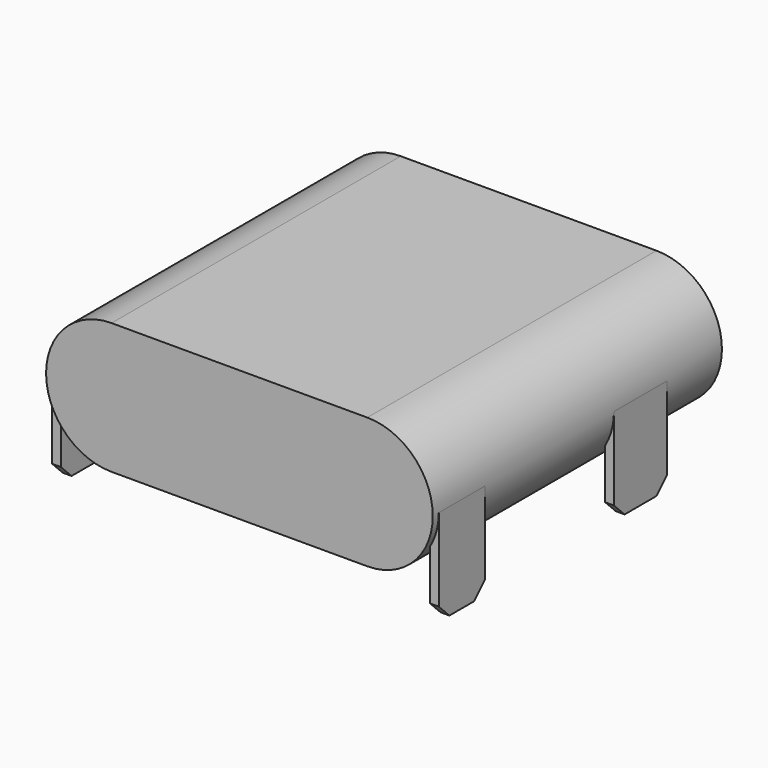
from build123d import *

# Parameters (mm, degrees)
PAD003_DEPTH    = 4.7
CHAMFER001_SIZE = 0.1
PAD010_DEPTH    = 3.47
SKETCH019_W     = 0.2
SKETCH019_H     = 1.5
SKETCH019_H_2   = 1.3
PAD012_DEPTH    = 2.17
CHAMFER002_SIZE = 0.3


with BuildPart() as part:
    # Sketch002 → Pad003 (new body)
    with BuildSketch(Plane.XZ):
        with BuildLine():
            ThreePointArc((-2.89, 1.48), (-4.37, 0), (-2.89, -1.48))
            Line((-2.89, -1.48), (2.89, -1.48))
            ThreePointArc((2.89, -1.48), (4.37, 0), (2.89, 1.48))
            Line((-2.89, 1.48), (2.89, 1.48))
        make_face()
        with BuildLine():
            ThreePointArc((-2.89, 1.28), (-4.17, 0), (-2.89, -1.28))
            Line((-2.89, -1.28), (2.89, -1.28))
            ThreePointArc((2.89, -1.28), (4.17, 0), (2.89, 1.28))
            Line((-2.89, 1.28), (2.89, 1.28))
        make_face(mode=Mode.SUBTRACT)
    extrude(amount=-PAD003_DEPTH)

    # Chamfer001
    chamfer001_edges = [part.edges().sort_by_distance(p)[0] for p in [
        (0, 4.7, 1.28),
    ]]
    chamfer(chamfer001_edges, length=CHAMFER001_SIZE)

    # Sketch014 → Pad010 (join)
    with BuildSketch(Plane.XZ):
        with BuildLine():
            ThreePointArc((-2.89, 1.48), (-4.37, 0), (-2.89, -1.48))
            Line((-2.89, -1.48), (2.89, -1.48))
            ThreePointArc((2.89, -1.48), (4.37, 0), (2.89, 1.48))
            Line((-2.89, 1.48), (2.89, 1.48))
        make_face()
    extrude(amount=PAD010_DEPTH)

    # Sketch019 → Pad012 (join)
    with BuildSketch(Plane.XY):
        with Locations((-4.27, 2.4)):
            Rectangle(SKETCH019_W, SKETCH019_H)
        with Locations((-4.27, -2.65)):
            Rectangle(SKETCH019_W, SKETCH019_H_2)
    pad012 = extrude(amount=-PAD012_DEPTH)

    # Mirrored002: Pad012 across Sketch019 V_Axis
    add(pad012.mirror(Plane(origin=(0, 0, 0), x_dir=(0, 0, 1), z_dir=(1, 0, 0))))

    # Chamfer002
    chamfer002_edges = [part.edges().sort_by_distance(p)[0] for p in [
        (4.27, -3.3, -2.17),
        (4.27, -2, -2.17),
        (4.27, 1.65, -2.17),
        (4.27, 3.15, -2.17),
        (-4.27, -3.3, -2.17),
        (-4.27, -2, -2.17),
        (-4.27, 1.65, -2.17),
        (-4.27, 3.15, -2.17),
    ]]
    chamfer(chamfer002_edges, length=CHAMFER002_SIZE)


solid = part.part
